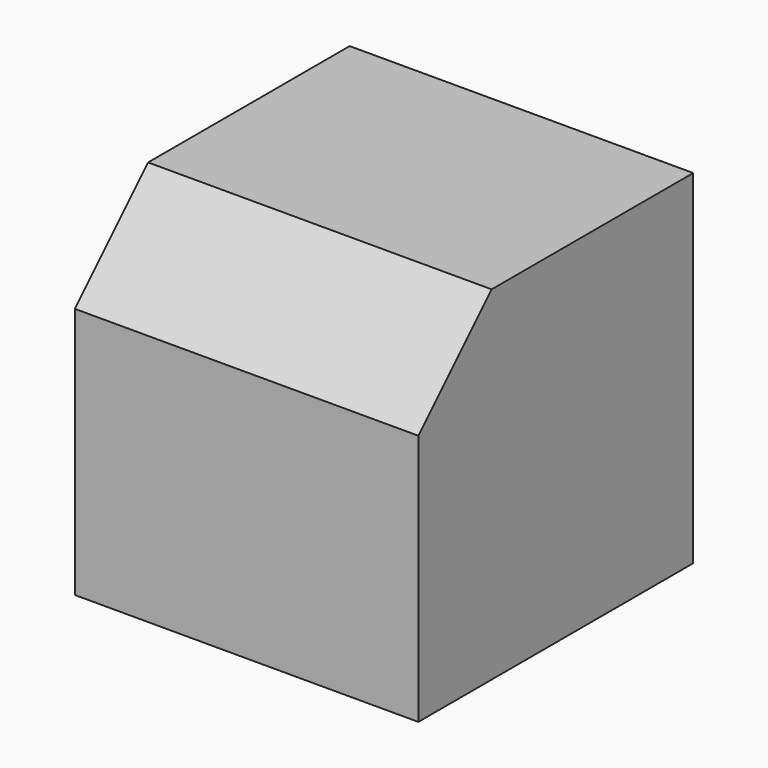
from build123d import *

# Parameters (mm, degrees)
F0_W     = 19.05
F0_H     = 19.05
F1_DEPTH = 9.525
F2_SIZE  = 5.08


with BuildPart() as f1:
    # F0 (on Front) → F1 (new body, symmetric)
    with BuildSketch(Plane.XZ):
        Rectangle(F0_W, F0_H)
    extrude(amount=F1_DEPTH, both=True)

    # F2
    f2_edges = [f1.edges().sort_by_distance(p)[0] for p in [
        (0, -9.525, 9.525),
    ]]
    chamfer(f2_edges, length=F2_SIZE)


solid = f1.part
